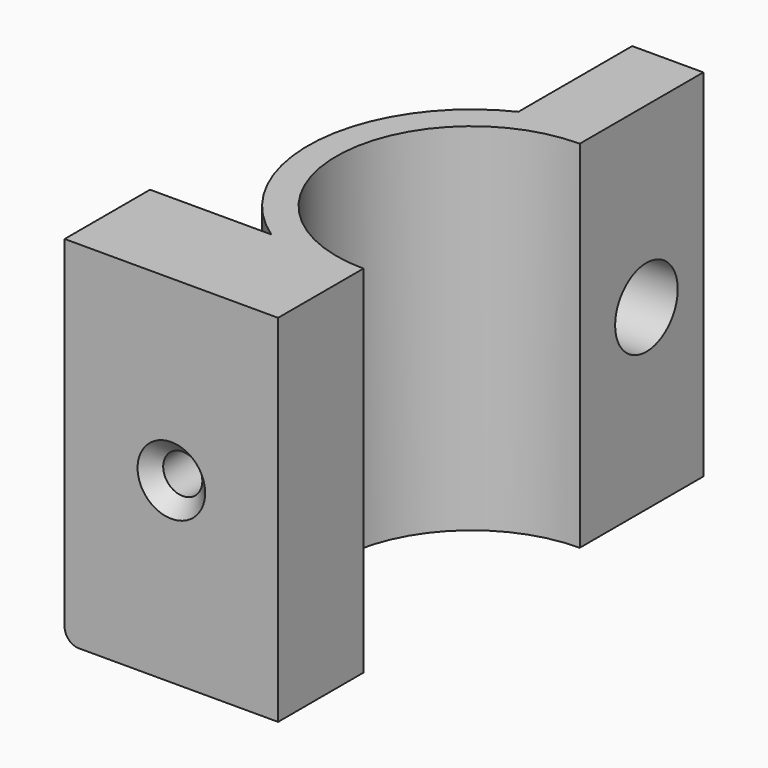
from build123d import *

# Parameters (mm, degrees)
PAD004_DEPTH    = 25
SKETCH011_R     = 1.375
POCKET007_DEPTH = 7
SKETCH012_R     = 2.75
POCKET008_DEPTH = 7
FILLET012_R     = 1
CHAMFER001_SIZE = 1


with BuildPart() as part:
    # Sketch008 (on XY_Plane003 of Origin006) → Pad004 (new body)
    with BuildSketch(Plane.XY):
        with BuildLine():
            ThreePointArc((0, 9.5), (-9.5, 0), (0, -9.5))
            Line((0, -9.5), (0, -16.99844))
            Line((-15, -16.99844), (0, -16.99844))
            Line((-15, -9.49844), (-15, -16.99844))
            Line((-6.483027, -9.49844), (-15, -9.49844))
            ThreePointArc((-5, 10.356158), (-11.468053, 0.856599), (-6.483027, -9.49844))
            Line((-5, 10.356158), (-5, 20.356158))
            Line((-5, 20.356158), (0, 20.356158))
            Line((0, 9.5), (0, 20.356158))
        make_face()
    extrude(amount=PAD004_DEPTH)

    # Sketch011 (on Face6 of Pad004) → Pocket007 (cut)
    with BuildSketch(Plane.XZ.offset(16.99844)):
        with Locations((-7.5, 12.5)):
            Circle(SKETCH011_R)
    extrude(amount=-POCKET007_DEPTH, mode=Mode.SUBTRACT)

    # Sketch012 (on Face1 of Pocket007) → Pocket008 (cut)
    with BuildSketch(Plane(origin=(-5, 0, 0), x_dir=(0, -1, 0), z_dir=(-1, 0, 0))):
        with Locations((-15.356158, 12.5)):
            Circle(SKETCH012_R)
    extrude(amount=-POCKET008_DEPTH, mode=Mode.SUBTRACT)

    # Fillet012
    fillet012_edges = [part.edges().sort_by_distance(p)[0] for p in [
        (-15, -13.24844, 0),
    ]]
    fillet(fillet012_edges, radius=FILLET012_R)

    # Chamfer001
    chamfer001_edges = [part.edges().sort_by_distance(p)[0] for p in [
        (-8.875, -16.99844, 12.5),
    ]]
    chamfer(chamfer001_edges, length=CHAMFER001_SIZE)


solid = part.part
